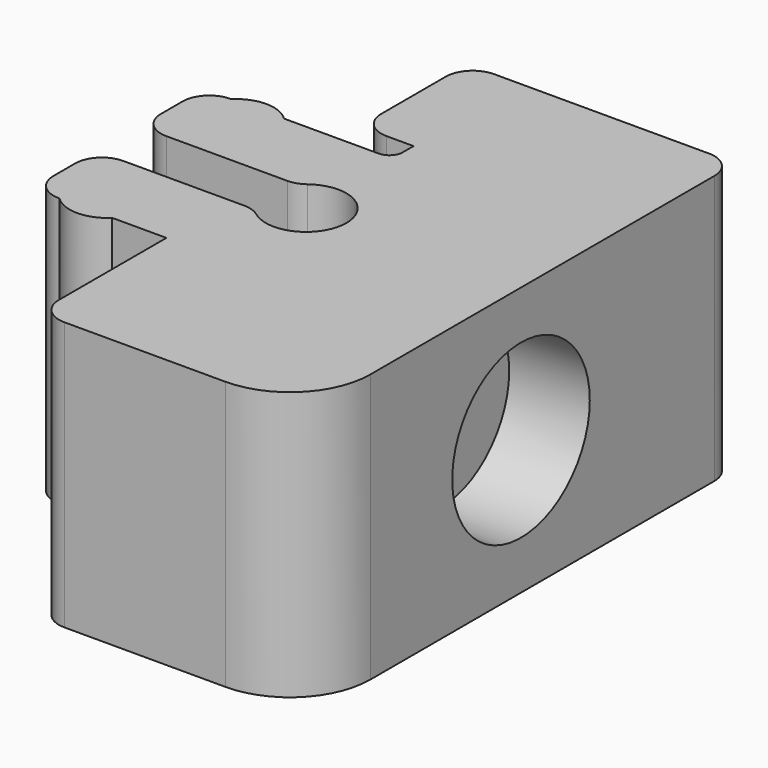
from build123d import *

# Parameters (mm, degrees)
PAD_DEPTH       = 10
SKETCH001_R     = 1.5
SKETCH001_W     = 2
SKETCH001_H     = 1
POCKET_DEPTH    = 10.001
SKETCH002_R     = 1.4
PAD001_DEPTH    = 10
FILLET_R        = 1
FILLET001_R     = 1
FILLET002_R     = 1
FILLET003_R     = 3
SKETCH003_R     = 1.9
POCKET001_DEPTH = 6
FILLET004_R     = 0.5
FILLET005_R     = 1
SKETCH004_R     = 3.2
POCKET002_DEPTH = 3
SKETCH005_R     = 1.3
POCKET003_DEPTH = 15.001


with BuildPart() as part:
    # Sketch → Pad (new body)
    with BuildSketch(Plane.XY):
        Polygon((0, 4), (-5, 4), (-5, 1), (2, 1), (2, -1), (-5, -1), (-5, -4), (0, -4), (0, -10), (10, -10), (10, 10), (0, 10), align=None)
    extrude(amount=PAD_DEPTH)

    # Sketch001 (on Face14 of Pad) → Pocket (cut, through all)
    with BuildSketch(Plane.XY.offset(10)):
        with Locations((2, 0)):
            Circle(SKETCH001_R)
        with Locations((1, 4.5)):
            Rectangle(SKETCH001_W, SKETCH001_H)
    extrude(amount=-POCKET_DEPTH, mode=Mode.SUBTRACT)

    # Sketch002 (on Face4 of Pocket) → Pad001 (join)
    with BuildSketch(Plane.XY.offset(10)):
        with Locations((-3, 3)):
            Circle(SKETCH002_R)
        with Locations((-3, -3)):
            Circle(SKETCH002_R)
    extrude(amount=-PAD001_DEPTH)

    # Fillet
    fillet_edges = [part.edges().sort_by_distance(p)[0] for p in [
        (-5, 4, 5),
        (-5, 1, 5),
        (-5, -1, 5),
        (-5, -4, 5),
    ]]
    fillet(fillet_edges, radius=FILLET_R)

    # Fillet001
    fillet001_edges = [part.edges().sort_by_distance(p)[0] for p in [
        (0.881966, 1, 5),
        (0.881966, -1, 5),
    ]]
    fillet(fillet001_edges, radius=FILLET001_R)

    # Fillet002
    fillet002_edges = [part.edges().sort_by_distance(p)[0] for p in [
        (0, 5, 5),
        (0, -10, 5),
    ]]
    fillet(fillet002_edges, radius=FILLET002_R)

    # Fillet003
    fillet003_edges = [part.edges().sort_by_distance(p)[0] for p in [
        (10, -10, 5),
    ]]
    fillet(fillet003_edges, radius=FILLET003_R)

    # Sketch003 (on Face7 of Fillet003) → Pocket001 (cut)
    with BuildSketch(Plane(origin=(0, 10, 0), x_dir=(-1, 0, 0), z_dir=(0, 1, 0))):
        with Locations((-5, 5)):
            Circle(SKETCH003_R)
    extrude(amount=-POCKET001_DEPTH, mode=Mode.SUBTRACT)

    # Fillet004
    fillet004_edges = [part.edges().sort_by_distance(p)[0] for p in [
        (2, 4, 5),
    ]]
    fillet(fillet004_edges, radius=FILLET004_R)

    # Fillet005
    fillet005_edges = [part.edges().sort_by_distance(p)[0] for p in [
        (0, 10, 5),
        (10, 10, 5),
    ]]
    fillet(fillet005_edges, radius=FILLET005_R)

    # Sketch004 (on Face9 of Fillet005) → Pocket002 (cut)
    with BuildSketch(Plane.YZ.offset(10)):
        with Locations((0, 5)):
            Circle(SKETCH004_R)
    extrude(amount=-POCKET002_DEPTH, mode=Mode.SUBTRACT)

    # Sketch005 (on Face9 of Pocket002) → Pocket003 (cut, through all)
    with BuildSketch(Plane.YZ.offset(10)):
        with Locations((0, 5)):
            Circle(SKETCH005_R)
    extrude(amount=-POCKET003_DEPTH, mode=Mode.SUBTRACT)


solid = part.part
